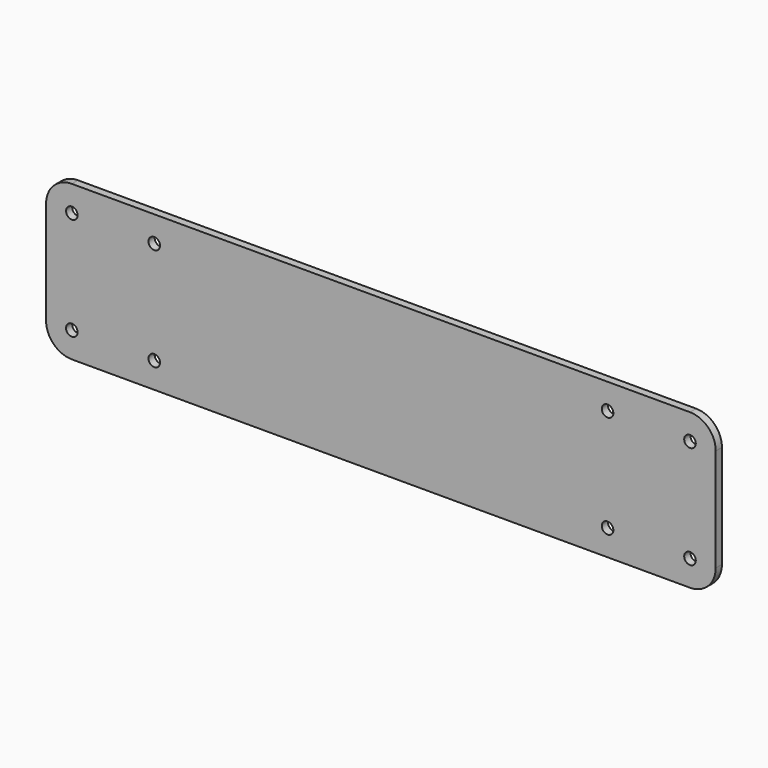
from build123d import *

# Parameters (mm, degrees)
F0_W     = 260
F0_H     = 60
F1_DEPTH = 3
F2_R     = 2.25
F3_DEPTH = 3.001
F4_R     = 10


with BuildPart() as f1:
    # F0 (on Front) → F1 (new body)
    with BuildSketch(Plane.XZ):
        Rectangle(F0_W, F0_H)
    extrude(amount=F1_DEPTH)

    # F2 (on face) → F3 (cut, through all)
    with BuildSketch(Plane.XZ.offset(3)):
        with Locations((-120, 20)):
            Circle(F2_R)
        with Locations((-120, -20)):
            Circle(F2_R)
        with Locations((-88, 20)):
            Circle(F2_R)
        with Locations((-88, -20)):
            Circle(F2_R)
        with Locations((88, 20)):
            Circle(F2_R)
        with Locations((120, 20)):
            Circle(F2_R)
        with Locations((120, -20)):
            Circle(F2_R)
        with Locations((88, -20)):
            Circle(F2_R)
    extrude(amount=-F3_DEPTH, mode=Mode.SUBTRACT)

    # F4
    f4_edges = [f1.edges().sort_by_distance(p)[0] for p in [
        (-130, -1.5, 30),
        (-130, -1.5, -30),
        (130, -1.5, -30),
        (130, -1.5, 30),
    ]]
    fillet(f4_edges, radius=F4_R)


solid = f1.part
